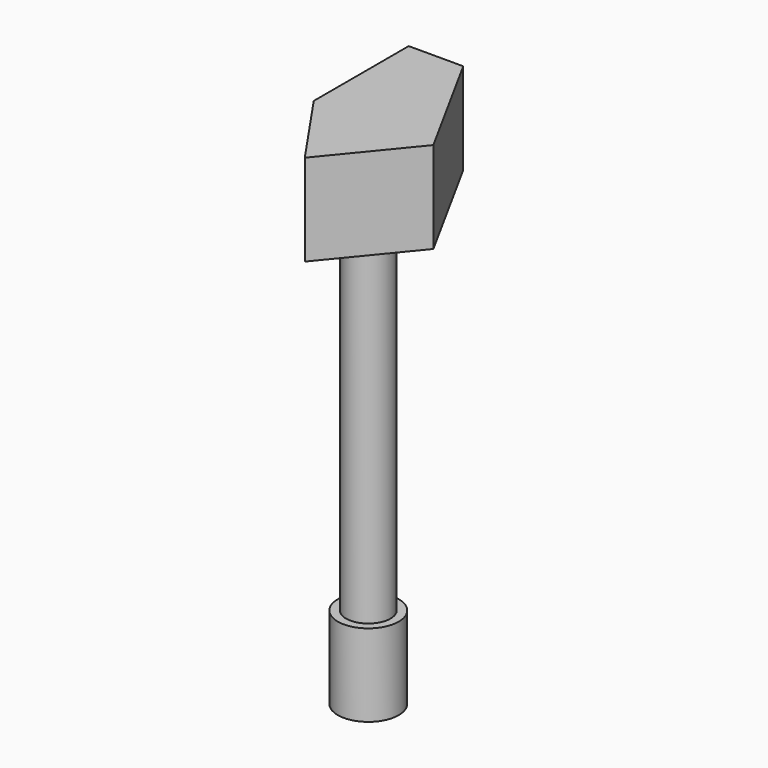
from build123d import *

# Parameters (mm, degrees)
F0_R     = 6.1654664674
F1_DEPTH = 117.094
F2_R     = 8.4528335809
F3_DEPTH = 22.86
F5_DEPTH = 25.4


with BuildPart() as f1:
    # F0 (on Top) → F1 (new body)
    with BuildSketch(Plane.XY):
        Circle(F0_R)
    extrude(amount=F1_DEPTH)

    # F2 (on Top) → F3 (join)
    with BuildSketch(Plane.XY):
        Circle(F2_R)
    extrude(amount=F3_DEPTH)

    # F4 (on face) → F5 (join)
    with BuildSketch(Plane.XY.offset(117.094)):
        Polygon((-15.1460403576, 0), (0, 0), (0, 32.9593867064), align=None)
        Polygon((0, -22.0521092415), (0, 0), (-15.1460403576, 0), align=None)
        Polygon((0, 32.9593867064), (0, 0), (18.0666185915, 0), align=None)
        Polygon((18.0666185915, 0), (0, 0), (0, -22.0521092415), align=None)
        Polygon((-15.1460403576, 0), (0, 32.9593867064), (-15.1460403576, 32.9593867064), align=None)
    extrude(amount=F5_DEPTH)


solid = f1.part
